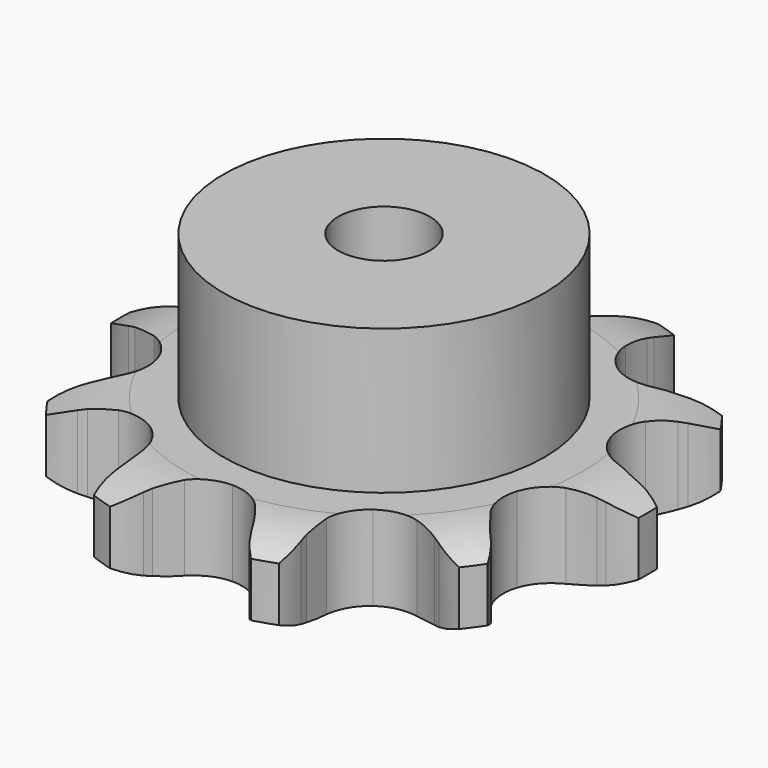
from build123d import *

# Parameters (mm, degrees)
PAD_DEPTH         = 11.1
SKETCH001_R       = 21
PAD001_DEPTH      = 30
SKETCH002_R       = 6
POCKET_DEPTH      = 0.001
POCKET_DEPTH_BACK = -30.001


with BuildPart() as part:
    # Sprocket → Pad (new body)
    with BuildSketch(Plane.XY):
        with BuildLine():
            ThreePointArc((-11.272984, 34.694676), (-8.850832, 32.92101), (-7.04431, 30.523264))
            Line((-7.04431, 30.523264), (-6.548899, 29.614617))
            ThreePointArc((-6.548899, 29.614617), (-5.65324, 28.164421), (-4.6062, 26.819439))
            ThreePointArc((-4.6062, 26.819439), (-2.530987, 25.269804), (0, 24.720272))
            ThreePointArc((0, 24.720272), (2.530987, 25.269804), (4.6062, 26.819439))
            ThreePointArc((4.6062, 26.819439), (5.65324, 28.164421), (6.548899, 29.614617))
            Line((6.548899, 29.614617), (7.04431, 30.523264))
            ThreePointArc((7.04431, 30.523264), (8.850832, 32.92101), (11.272984, 34.694676))
            ThreePointArc((11.272984, 34.694676), (12.190011, 31.836045), (12.242158, 28.834381))
            Line((12.242158, 28.834381), (12.108864, 27.808075))
            ThreePointArc((12.108864, 27.808075), (11.981064, 26.108387), (12.037576, 24.404838))
            ThreePointArc((12.037576, 24.404838), (12.805606, 21.931377), (14.530212, 19.999121))
            ThreePointArc((14.530212, 19.999121), (16.900829, 18.956024), (19.490565, 18.989925))
            Line((19.490565, 18.989925), (22.705206, 20.109382))
            ThreePointArc((22.705206, 20.109382), (23.169003, 20.339016), (23.640091, 20.553298))
            ThreePointArc((23.640091, 20.553298), (26.510958, 21.431268), (29.513055, 21.442489))
            ThreePointArc((29.513055, 21.442489), (28.574684, 18.590793), (26.852538, 16.131744))
            Line((26.852538, 16.131744), (26.141453, 15.379793))
            ThreePointArc((26.141453, 15.379793), (25.039009, 14.079836), (24.083408, 12.668419))
            ThreePointArc((24.083408, 12.668419), (23.250893, 10.21591), (23.510376, 7.638984))
            ThreePointArc((23.510376, 7.638984), (24.815129, 5.401687), (26.930196, 3.906906))
            Line((26.930196, 3.906906), (30.188896, 2.923046))
            ThreePointArc((30.188896, 2.923046), (30.699091, 2.836211), (31.206161, 2.73267))
            ThreePointArc((31.206161, 2.73267), (34.044799, 1.75551), (36.480142, 0))
            ThreePointArc((36.480142, 0), (34.044799, -1.75551), (31.206161, -2.73267))
            Line((31.206161, -2.73267), (30.188896, -2.923046))
            ThreePointArc((30.188896, -2.923046), (28.532904, -3.326734), (26.930196, -3.906906))
            ThreePointArc((26.930196, -3.906906), (24.815129, -5.401687), (23.510376, -7.638984))
            ThreePointArc((23.510376, -7.638984), (23.250893, -10.21591), (24.083408, -12.668419))
            Line((24.083408, -12.668419), (26.141453, -15.379793))
            ThreePointArc((26.141453, -15.379793), (26.50317, -15.74993), (26.852538, -16.131744))
            ThreePointArc((26.852538, -16.131744), (28.574684, -18.590793), (29.513055, -21.442489))
            ThreePointArc((29.513055, -21.442489), (26.510958, -21.431268), (23.640091, -20.553298))
            Line((23.640091, -20.553298), (22.705206, -20.109382))
            ThreePointArc((22.705206, -20.109382), (21.128199, -19.462604), (19.490565, -18.989925))
            ThreePointArc((19.490565, -18.989925), (16.900829, -18.956024), (14.530212, -19.999121))
            ThreePointArc((14.530212, -19.999121), (12.805606, -21.931377), (12.037576, -24.404838))
            Line((12.037576, -24.404838), (12.108864, -27.808075))
            ThreePointArc((12.108864, -27.808075), (12.183938, -28.320133), (12.242158, -28.834381))
            ThreePointArc((12.242158, -28.834381), (12.190011, -31.836045), (11.272984, -34.694676))
            ThreePointArc((11.272984, -34.694676), (8.850832, -32.92101), (7.04431, -30.523264))
            Line((7.04431, -30.523264), (6.548899, -29.614617))
            ThreePointArc((6.548899, -29.614617), (5.65324, -28.164421), (4.6062, -26.819439))
            ThreePointArc((4.6062, -26.819439), (2.530987, -25.269804), (0, -24.720272))
            ThreePointArc((0, -24.720272), (-2.530987, -25.269804), (-4.6062, -26.819439))
            Line((-4.6062, -26.819439), (-6.548899, -29.614617))
            ThreePointArc((-6.548899, -29.614617), (-6.789144, -30.073008), (-7.04431, -30.523264))
            ThreePointArc((-7.04431, -30.523264), (-8.850832, -32.92101), (-11.272984, -34.694676))
            ThreePointArc((-11.272984, -34.694676), (-12.190011, -31.836045), (-12.242158, -28.834381))
            Line((-12.242158, -28.834381), (-12.108864, -27.808075))
            ThreePointArc((-12.108864, -27.808075), (-11.981064, -26.108387), (-12.037576, -24.404838))
            ThreePointArc((-12.037576, -24.404838), (-12.805606, -21.931377), (-14.530212, -19.999121))
            ThreePointArc((-14.530212, -19.999121), (-16.900829, -18.956024), (-19.490565, -18.989925))
            Line((-19.490565, -18.989925), (-22.705206, -20.109382))
            ThreePointArc((-22.705206, -20.109382), (-23.169003, -20.339016), (-23.640091, -20.553298))
            ThreePointArc((-23.640091, -20.553298), (-26.510958, -21.431268), (-29.513055, -21.442489))
            ThreePointArc((-29.513055, -21.442489), (-28.574684, -18.590793), (-26.852538, -16.131744))
            Line((-26.852538, -16.131744), (-26.141453, -15.379793))
            ThreePointArc((-26.141453, -15.379793), (-25.039009, -14.079836), (-24.083408, -12.668419))
            ThreePointArc((-24.083408, -12.668419), (-23.250893, -10.21591), (-23.510376, -7.638984))
            ThreePointArc((-23.510376, -7.638984), (-24.815129, -5.401687), (-26.930196, -3.906906))
            Line((-26.930196, -3.906906), (-30.188896, -2.923046))
            ThreePointArc((-30.188896, -2.923046), (-30.699091, -2.836211), (-31.206161, -2.73267))
            ThreePointArc((-31.206161, -2.73267), (-34.044799, -1.75551), (-36.480142, 0))
            ThreePointArc((-36.480142, 0), (-34.044799, 1.75551), (-31.206161, 2.73267))
            Line((-31.206161, 2.73267), (-30.188896, 2.923046))
            ThreePointArc((-30.188896, 2.923046), (-28.532904, 3.326734), (-26.930196, 3.906906))
            ThreePointArc((-26.930196, 3.906906), (-24.815129, 5.401687), (-23.510376, 7.638984))
            ThreePointArc((-23.510376, 7.638984), (-23.250893, 10.21591), (-24.083408, 12.668419))
            Line((-24.083408, 12.668419), (-26.141453, 15.379793))
            ThreePointArc((-26.141453, 15.379793), (-26.50317, 15.74993), (-26.852538, 16.131744))
            ThreePointArc((-26.852538, 16.131744), (-28.574684, 18.590793), (-29.513055, 21.442489))
            ThreePointArc((-29.513055, 21.442489), (-26.510958, 21.431268), (-23.640091, 20.553298))
            Line((-23.640091, 20.553298), (-22.705206, 20.109382))
            ThreePointArc((-22.705206, 20.109382), (-21.128199, 19.462604), (-19.490565, 18.989925))
            ThreePointArc((-19.490565, 18.989925), (-16.900829, 18.956024), (-14.530212, 19.999121))
            ThreePointArc((-14.530212, 19.999121), (-12.805606, 21.931377), (-12.037576, 24.404838))
            Line((-12.037576, 24.404838), (-12.108864, 27.808075))
            ThreePointArc((-12.108864, 27.808075), (-12.183938, 28.320133), (-12.242158, 28.834381))
            ThreePointArc((-12.242158, 28.834381), (-12.190011, 31.836045), (-11.272984, 34.694676))
        make_face()
    extrude(amount=PAD_DEPTH)

    # Sketch → Groove (revolve, cut)
    with BuildSketch(Plane.XZ):
        with BuildLine():
            Line((26.014719, 0), (34.5, 0))
            Line((42.985281, 0), (34.5, 0))
            Line((42.985281, 11.1), (42.985281, 0))
            Line((34.5, 11.1), (42.985281, 11.1))
            Line((26.014719, 11.1), (34.5, 11.1))
            ThreePointArc((34.5, 9.1), (30.373618, 10.593242), (26.014719, 11.1))
            Line((34.5, 2), (34.5, 9.1))
            ThreePointArc((26.014719, 0), (30.373618, 0.506758), (34.5, 2))
        make_face()
    revolve(axis=Axis((0, 0, 0), (0, 0, 1)), mode=Mode.SUBTRACT)

    # Sketch001 → Pad001 (join)
    with BuildSketch(Plane.XY):
        Circle(SKETCH001_R)
    extrude(amount=PAD001_DEPTH)

    # Sketch002 → Pocket (cut, two sides)
    with BuildSketch(Plane.XY) as pocket_sk:
        Circle(SKETCH002_R)
    extrude(amount=-POCKET_DEPTH, mode=Mode.SUBTRACT)
    extrude(pocket_sk.sketch, amount=-POCKET_DEPTH_BACK, mode=Mode.SUBTRACT)


solid = part.part
